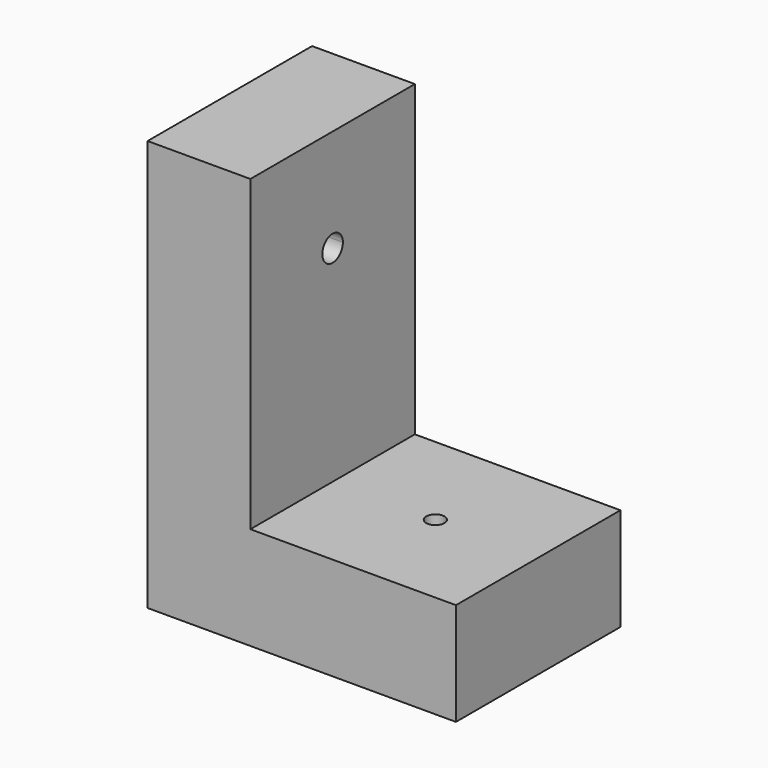
from build123d import *

# Parameters (mm, degrees)
F1_DEPTH = 101.6
F4_DEPTH = 115.900189
F5_DEPTH = 182.793036


with BuildPart() as f1:
    # F0 (on Front) → F1 (new body)
    with BuildSketch(Plane.XZ):
        Polygon((50.8, 101.044822), (0, 101.044822), (0, -102.155178), (152.4, -102.155178), (152.4, -51.355178), (50.8, -51.355178), align=None)
    extrude(amount=F1_DEPTH)

    # F3 (on face) → F4 (cut)
    with BuildSketch(Plane.XY.offset(-51.355178)):
        with BuildLine():
            ThreePointArc((106.1085, -50.8), (101.6, -46.2915), (97.0915, -50.8))
            ThreePointArc((97.0915, -50.8), (101.6, -55.3085), (106.1085, -50.8))
        make_face()
    extrude(amount=-F4_DEPTH, mode=Mode.SUBTRACT)

    # F2 (on face) → F5 (cut)
    with BuildSketch(Plane.YZ.offset(50.8)):
        with BuildLine():
            ThreePointArc((-44.45, 50.244822), (-46.309872, 54.73495), (-50.8, 56.594822))
            ThreePointArc((-50.8, 56.594822), (-55.290128, 45.754694), (-44.45, 50.244822))
        make_face()
    extrude(amount=-F5_DEPTH, mode=Mode.SUBTRACT)


solid = f1.part
